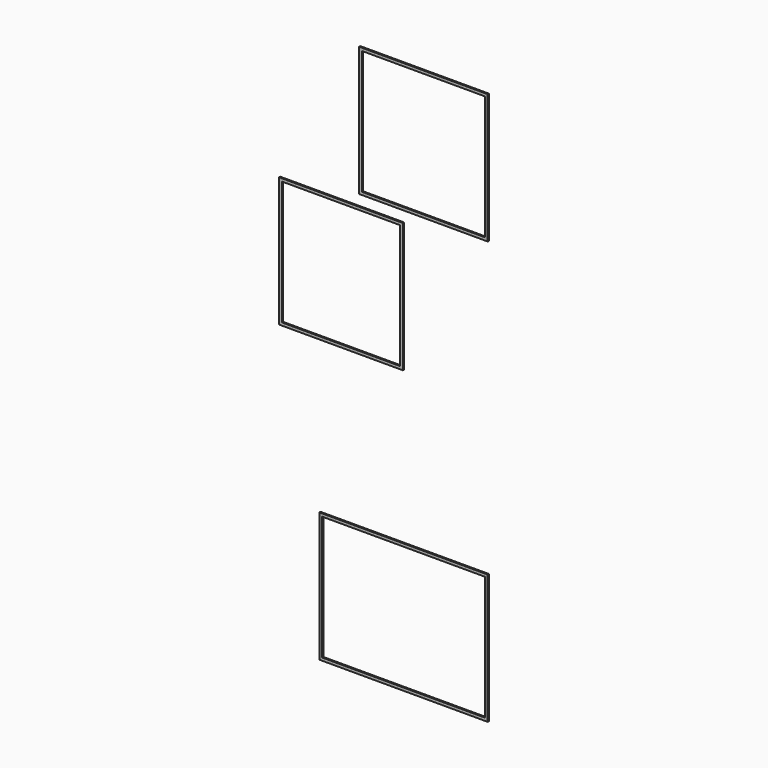
from build123d import *

# Parameters (mm, degrees)
F0_W     = 80
F0_H     = 202
F1_DEPTH = 3
F2_W     = 41.942806
F2_H     = 44
F2_W_2   = 43.622092
F3_DEPTH = 25
F5_W     = 59.710604
F5_H     = 46
F5_W_2   = 57.710604
F5_H_2   = 44
F5_W_3   = 43.942806
F5_W_4   = 41.942806
F5_W_5   = 45.622092
F5_W_6   = 43.622092
F6_DEPTH = 0.5
F7_W     = 109.326043
F7_H     = 224.900469
F8_DEPTH = 3


with BuildPart() as f1:
    # F0 (on Front) → F1 (new body)
    with BuildSketch(Plane.XZ):
        with Locations((-19.744222, 27.878283)):
            Rectangle(F0_W, F0_H)
    extrude(amount=F1_DEPTH)

    # F2 (on face) → F3 (cut)
    with BuildSketch(Plane.XZ.offset(3)):
        with Locations((-34.772819, 52.878283)):
            Rectangle(F2_W, F2_H)
        with Locations((-5.555268, 102.878283)):
            Rectangle(F2_W_2, F2_H)
        Polygon((16.255778, -25.121717), (-41.454826, -25.121717), (-41.454826, -42.175964), (-41.454826, -69.121717), (16.255778, -69.121717), align=None)
    extrude(amount=-F3_DEPTH, mode=Mode.SUBTRACT)

    # F5 (on face) → F6 (join)
    with BuildSketch(Plane(origin=(0, 0, 0), x_dir=(-1, 0, 0), z_dir=(0, 1, 0))):
        with Locations((12.599524, -47.121717)):
            Rectangle(F5_W, F5_H)
        with Locations((12.599524, -47.121717)):
            Rectangle(F5_W_2, F5_H_2, mode=Mode.SUBTRACT)
        with Locations((34.772819, 52.878283)):
            Rectangle(F5_W_3, F5_H)
        with Locations((34.772819, 52.878283)):
            Rectangle(F5_W_4, F5_H_2, mode=Mode.SUBTRACT)
        with Locations((5.555268, 102.878283)):
            Rectangle(F5_W_5, F5_H)
        with Locations((5.555268, 102.878283)):
            Rectangle(F5_W_6, F5_H_2, mode=Mode.SUBTRACT)
    extrude(amount=F6_DEPTH)

    # F7 (on face) → F8 (cut)
    with BuildSketch(Plane.XZ.offset(3)):
        with Locations((-18.837999, 26.267044)):
            Rectangle(F7_W, F7_H)
    extrude(amount=-F8_DEPTH, mode=Mode.SUBTRACT)


solid = f1.part
